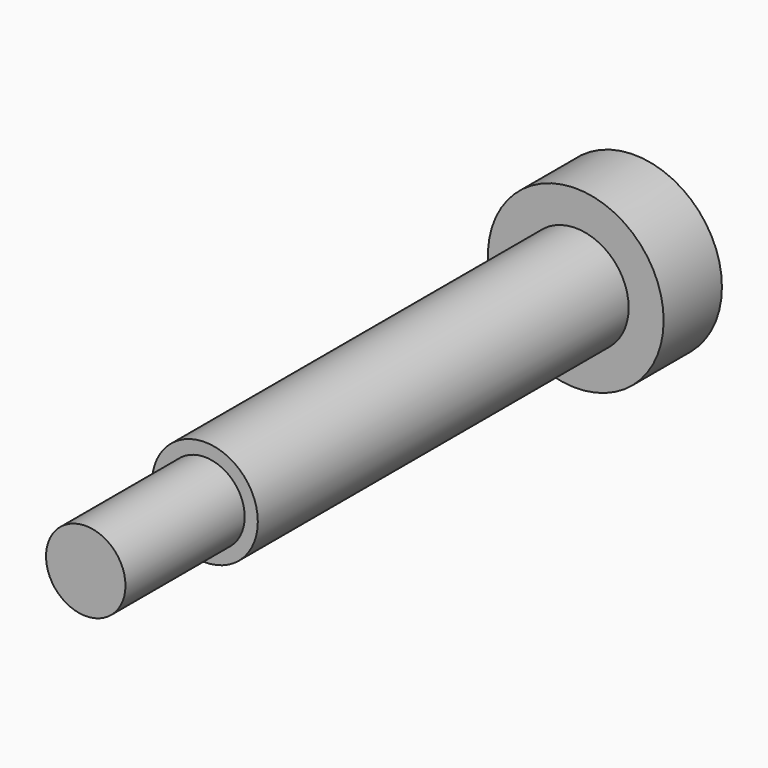
from build123d import *

# Parameters (mm, degrees)
F0_R     = 6.635
F1_DEPTH = 5.5
F2_R     = 3.9935
F3_DEPTH = 35
F4_R     = 3
F5_DEPTH = 11.25


with BuildPart() as f1:
    # F0 (on Front) → F1 (new body)
    with BuildSketch(Plane.XZ):
        with Locations((-35.828222, 14.797199)):
            Circle(F0_R)
    extrude(amount=F1_DEPTH)

    # F2 (on face) → F3 (join)
    with BuildSketch(Plane.XZ.offset(5.5)):
        with Locations((-35.828222, 14.797199)):
            Circle(F2_R)
    extrude(amount=F3_DEPTH)

    # F4 (on face) → F5 (join)
    with BuildSketch(Plane.XZ.offset(40.5)):
        with Locations((-35.828222, 14.797199)):
            Circle(F4_R)
    extrude(amount=F5_DEPTH)


solid = f1.part
